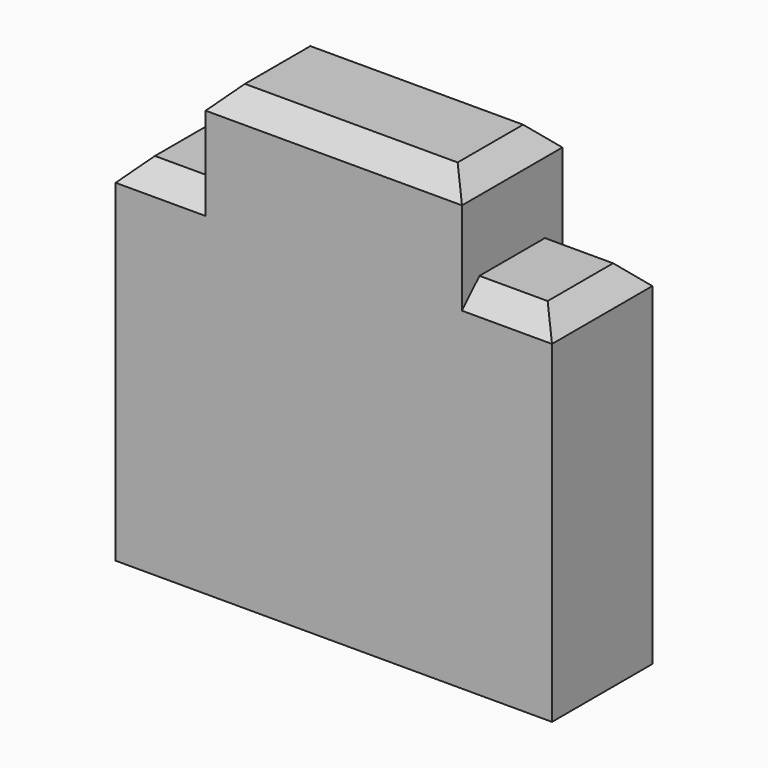
from build123d import *

# Parameters (mm, degrees)
SKETCH008_W     = 4
SKETCH008_H     = 1.15
PAD005_DEPTH    = 4.1
SKETCH009_W     = 0.825
SKETCH009_H     = 0.85
POCKET002_DEPTH = 5
CHAMFER005_SIZE = 0.2


with BuildPart() as part:
    # Sketch008 → Pad005 (new body)
    with BuildSketch(Plane.XY):
        Rectangle(SKETCH008_W, SKETCH008_H)
    extrude(amount=PAD005_DEPTH)

    # Sketch009 (on Face1 of Pad005) → Pocket002 (cut)
    with BuildSketch(Plane(origin=(0, 0.575, 0), x_dir=(-1, 0, 0), z_dir=(0, 1, 0))):
        with Locations((-1.5875, 3.675)):
            Rectangle(SKETCH009_W, SKETCH009_H)
        with Locations((1.5875, 3.675)):
            Rectangle(SKETCH009_W, SKETCH009_H)
    extrude(amount=-POCKET002_DEPTH, mode=Mode.SUBTRACT)

    # Chamfer005
    chamfer005_edges = [part.edges().sort_by_distance(p)[0] for p in [
        (0, 0.575, 4.1),
        (0, -0.575, 4.1),
        (1.5875, 0.575, 3.25),
        (-1.5875, 0.575, 3.25),
        (-1.5875, -0.575, 3.25),
        (1.5875, -0.575, 3.25),
        (2, 0, 3.25),
        (-2, 0, 3.25),
        (1.175, 0, 4.1),
        (-1.175, 0, 4.1),
    ]]
    chamfer(chamfer005_edges, length=CHAMFER005_SIZE)


with BuildPart() as part_1:
    # Body038 placement: moved
    add(part.part.moved(Location((0, 24, 0))))


solid = part_1.part
